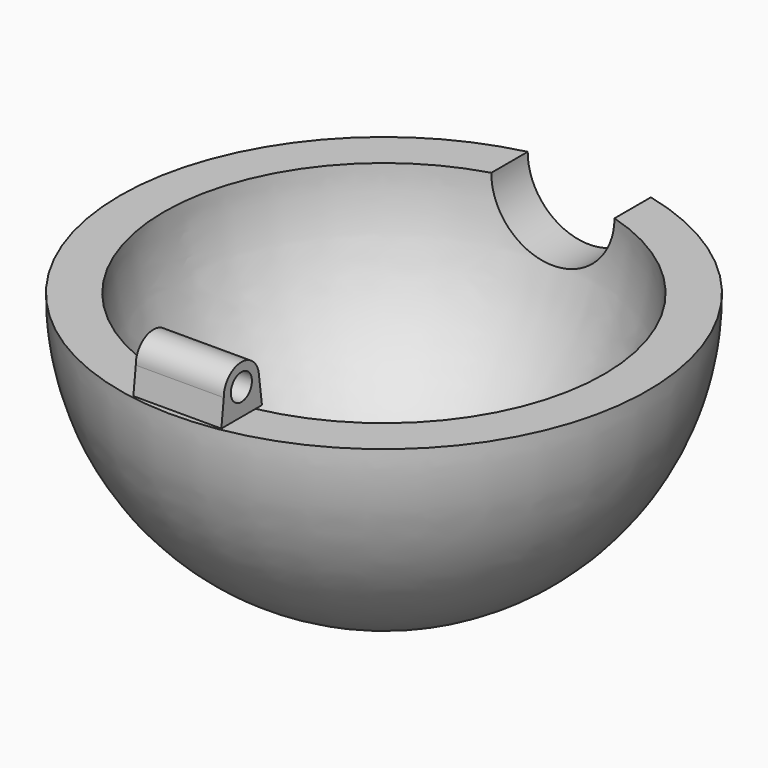
from build123d import *

# Parameters (mm, degrees)
F2_R     = 8.89
F3_DEPTH = 38.101
F4_R     = 1.905
F5_DEPTH = 6.35


with BuildPart() as f1:
    # F0 (on Front) → F1 (revolve)
    with BuildSketch(Plane.XZ):
        with BuildLine():
            Line((-31.75, 0), (-38.1, 0))
            ThreePointArc((-38.1, 0), (-26.940768, -26.940768), (0, -38.1))
            Line((0, -38.1), (0, -31.75))
            ThreePointArc((0, -31.75), (-22.45064, -22.45064), (-31.75, 0))
        make_face()
    revolve(axis=Axis((0, 0, -34.925), (0, 0, -1)))

    # F2 (on Front) → F3 (cut, through all)
    with BuildSketch(Plane.XZ):
        Circle(F2_R)
    extrude(amount=-F3_DEPTH, mode=Mode.SUBTRACT)

    # F4 (on Right) → F5 (join, symmetric)
    with BuildSketch(Plane.YZ):
        with BuildLine():
            Line((-37.271068, 0), (-31.75, 0))
            Line((-31.75, 0), (-29.942831, 0))
            Line((-29.942831, 0), (-30.493099, 4.098108))
            Line((-30.493099, 4.098108), (-30.529094, 4.366179))
            ThreePointArc((-30.529094, 4.366179), (-33.967337, 6.9696), (-36.829301, 3.743383))
            Line((-36.829301, 3.743383), (-37.271068, 0))
        make_face()
        with Locations((-33.655, 3.81)):
            Circle(F4_R, mode=Mode.SUBTRACT)
    extrude(amount=F5_DEPTH, both=True)


solid = f1.part
